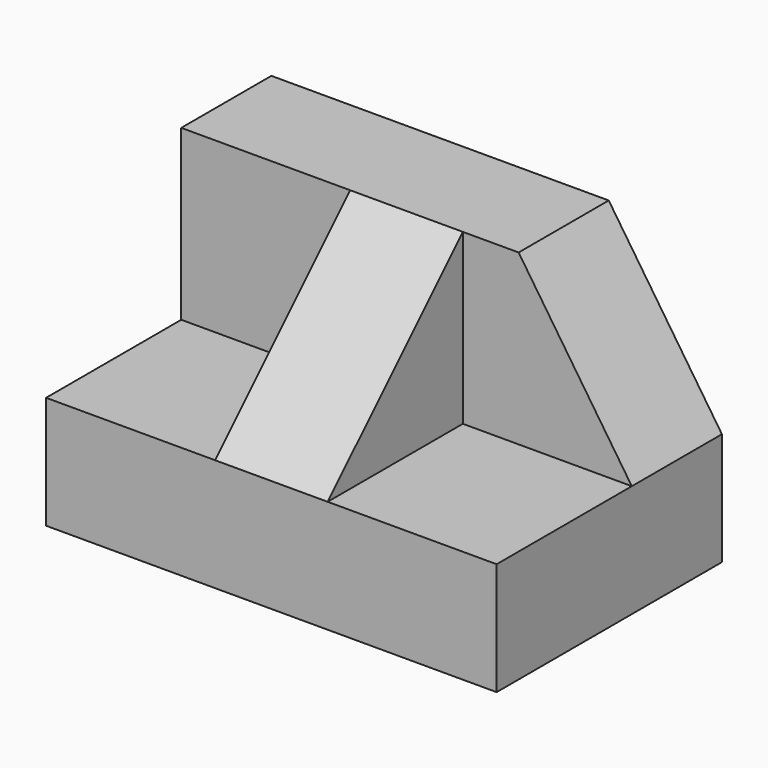
from build123d import *

# Parameters (mm, degrees)
F1_DEPTH = 31.75
F2_W     = 19.05
F2_H     = 19.05
F3_DEPTH = 19.05
F5_DEPTH = 19.05
F7_DEPTH = 25.4


with BuildPart() as f1:
    # F0 (on Front) → F1 (new body)
    with BuildSketch(Plane.XZ):
        Polygon((0, 31.75), (0, 0), (50.8, 0), (50.8, 12.7), (38.039813, 31.75), align=None)
    extrude(amount=F1_DEPTH)

    # F2 (on face) → F3 (cut)
    with BuildSketch(Plane.XZ.offset(31.75)):
        with Locations((9.525, 22.225)):
            Rectangle(F2_W, F2_H)
    extrude(amount=-F3_DEPTH, mode=Mode.SUBTRACT)

    # F4 (on face) → F5 (cut)
    with BuildSketch(Plane.XZ.offset(31.75)):
        Polygon((31.75, 12.7), (50.8, 12.7), (38.039813, 31.75), (31.75, 31.75), align=None)
    extrude(amount=-F5_DEPTH, mode=Mode.SUBTRACT)

    # F6 (on face) → F7 (cut)
    with BuildSketch(Plane.YZ.offset(31.75)):
        Polygon((-31.75, 12.7), (-12.7, 31.75), (-31.75, 31.75), align=None)
    extrude(amount=-F7_DEPTH, mode=Mode.SUBTRACT)


solid = f1.part
